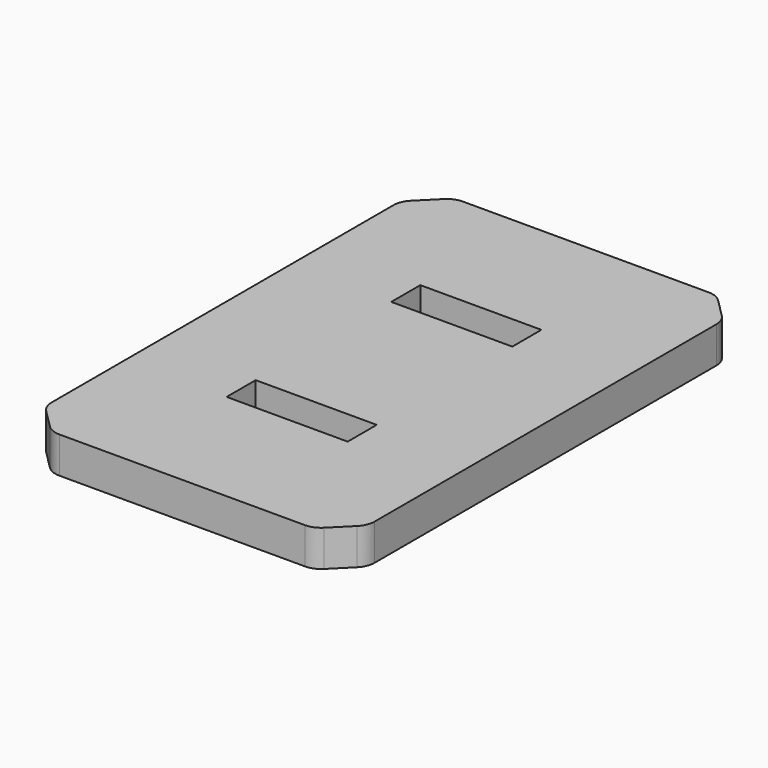
from build123d import *

# Parameters (mm, degrees)
SKETCH_W     = 160
SKETCH_H     = 250
PAD_DEPTH    = 18
SKETCH001_W  = 60
SKETCH001_H  = 18
POCKET_DEPTH = 12
CHAMFER_SIZE = 15
FILLET_R     = 10


with BuildPart() as part:
    # Sketch → Pad (new body)
    with BuildSketch(Plane.XY):
        Rectangle(SKETCH_W, SKETCH_H)
    extrude(amount=PAD_DEPTH)

    # Sketch001 → Pocket (cut)
    with BuildSketch(Plane.XY.offset(18)):
        with Locations((0, 51)):
            Rectangle(SKETCH001_W, SKETCH001_H)
    pocket = extrude(amount=-POCKET_DEPTH, mode=Mode.SUBTRACT)

    # Mirrored: Pocket across Sketch001 H_Axis
    add(pocket.mirror(Plane(origin=(0, 0, 18), x_dir=(0, 0, 1), z_dir=(0, 1, 0))), mode=Mode.SUBTRACT)

    # Chamfer
    chamfer_edges = [part.edges().sort_by_distance(p)[0] for p in [
        (-80, -125, 9),
        (-80, 125, 9),
        (80, 125, 9),
        (80, -125, 9),
    ]]
    chamfer(chamfer_edges, length=CHAMFER_SIZE)

    # Fillet
    fillet_edges = [part.edges().sort_by_distance(p)[0] for p in [
        (65, -125, 9),
        (80, -110, 9),
        (-65, -125, 9),
        (-80, -110, 9),
        (-80, 110, 9),
        (-65, 125, 9),
        (65, 125, 9),
        (80, 110, 9),
    ]]
    fillet(fillet_edges, radius=FILLET_R)


solid = part.part
